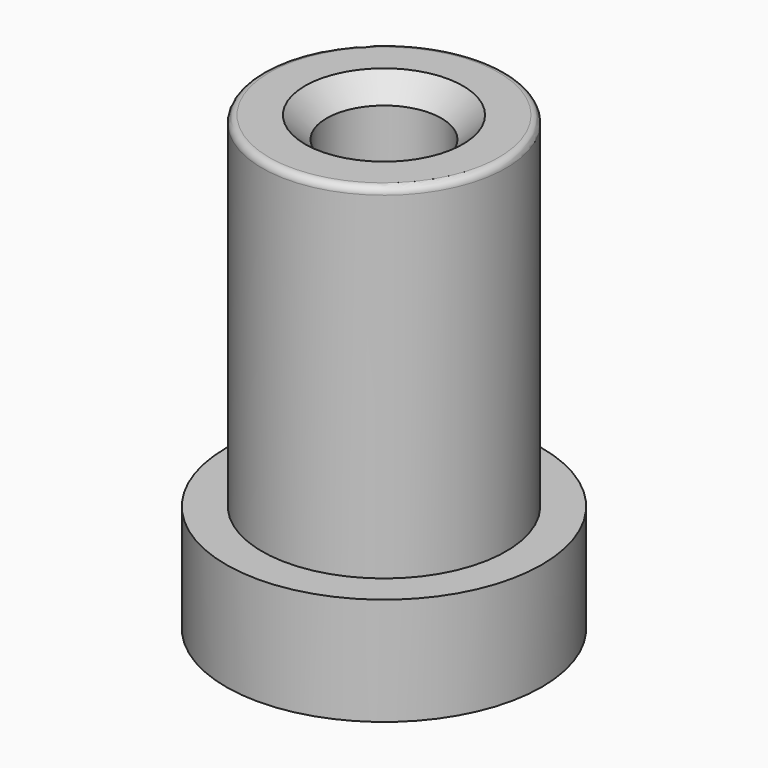
from build123d import *

# Parameters (mm, degrees)
F2_R = 0.25
F3_R = 1


with BuildPart() as f1:
    # F0 (on Front) → F1 (revolve)
    with BuildSketch(Plane.XZ):
        Polygon((-2, 8.25), (-2.75, 9), (-4.25, 9), (-4.25, 6.75), (-4.25, 6), (-4.25, -3), (-5.5, -3), (-5.5, -6.75), (-4.25, -6.75), (-3.706053, -6.75), (-2, -5.100015), align=None)
    revolve(axis=Axis((0, 0, 1.255823), (0, 0, -1)))

    # F2
    f2_edges = [f1.edges().sort_by_distance(p)[0] for p in [
        (4.25, 0, 9),
    ]]
    fillet(f2_edges, radius=F2_R)

    # F3
    f3_edges = [f1.edges().sort_by_distance(p)[0] for p in [
        (3.706053, 0, -6.75),
    ]]
    fillet(f3_edges, radius=F3_R)


solid = f1.part
